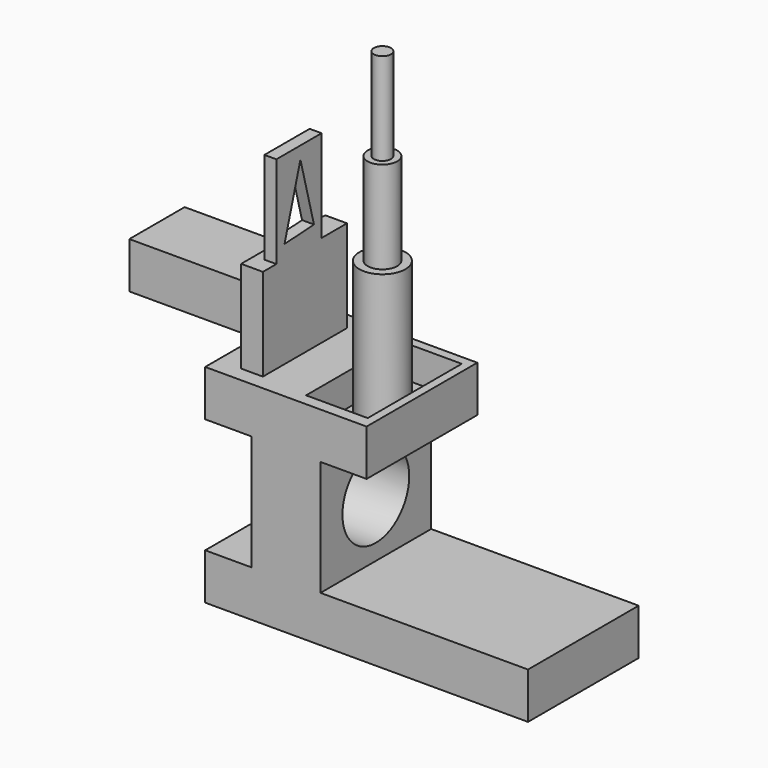
from build123d import *

# Parameters (mm, degrees)
F1_DEPTH  = 76.2
F2_R      = 23.0023216087
F3_DEPTH  = 63.501
F4_W      = 11.9801070541
F4_H      = 57.9038551077
F5_DEPTH  = 50.8
F6_W      = 33.9436382055
F6_H      = 64.7496273741
F7_DEPTH  = 17.78
F8_R      = 12.7
F9_DEPTH  = 76.2
F10_W     = 38.1
F10_H     = 25.4
F11_DEPTH = 63.5
F12_R     = 8.1391487304
F13_DEPTH = 50.8
F14_R     = 4.7187063419
F15_DEPTH = 50.8
F16_W     = 6.577372551
F16_H     = 31.1278868467
F17_DEPTH = 50.8
F19_DEPTH = 30.48
F20_W     = 76.2
F20_H     = 25.4
F21_DEPTH = 88.9


with BuildPart() as f1:
    # F0 (on Front) → F1 (new body)
    with BuildSketch(Plane.XZ):
        Polygon((-45.5546230793, -12.3941076807), (-45.5546230793, -37.7941076807), (43.3453769207, -37.7941076807), (43.3453769207, -12.3941076807), (17.9453769207, -12.3941076807), (17.9453769207, 51.1058923193), (43.3453769207, 51.1058923193), (43.3453769207, 76.5058923193), (-45.5546230793, 76.5058923193), (-45.5546230793, 51.1058923193), (-20.1546230793, 51.1058923193), (-20.1546230793, -12.3941076807), align=None)
    extrude(amount=F1_DEPTH)

    # F2 (on face) → F3 (cut, through all)
    with BuildSketch(Plane.YZ.offset(17.9453769207)):
        with Locations((-38.1, 19.3558923193)):
            Circle(F2_R)
    extrude(amount=-F3_DEPTH, mode=Mode.SUBTRACT)

    # F4 (on face) → F5 (join)
    with BuildSketch(Plane.XY.offset(76.5058923193)):
        with Locations((-26.5273796394, -38.7927298434)):
            Rectangle(F4_W, F4_H)
    extrude(amount=F5_DEPTH)

    # F6 (on face) → F7 (cut)
    with BuildSketch(Plane.XY.offset(76.5058923193)):
        with Locations((21.820910275, -37.3665248044)):
            Rectangle(F6_W, F6_H)
    extrude(amount=-F7_DEPTH, mode=Mode.SUBTRACT)

    # F8 (on face) → F9 (join)
    with BuildSketch(Plane.XY.offset(58.7258923193)):
        with Locations((22.248769179, -38.9353483915)):
            Circle(F8_R)
    extrude(amount=F9_DEPTH)

    # F10 (on face) → F11 (join)
    with BuildSketch(Plane(origin=(-32.5174331665, 0, 0), x_dir=(0, -1, 0), z_dir=(-1, 0, 0))):
        with Locations((46.303805925, 104.9945801497)):
            Rectangle(F10_W, F10_H)
    extrude(amount=F11_DEPTH)

    # F12 (on face) → F13 (join)
    with BuildSketch(Plane.XY.offset(134.9258923193)):
        with Locations((22.248769179, -38.9353483915)):
            Circle(F12_R)
    extrude(amount=F13_DEPTH)

    # F14 (on face) → F15 (join)
    with BuildSketch(Plane.XY.offset(185.7258923193)):
        with Locations((22.248769179, -38.9353483915)):
            Circle(F14_R)
    extrude(amount=F15_DEPTH)

    # F16 (on face) → F17 (join)
    with BuildSketch(Plane.XY.offset(127.3058923193)):
        with Locations((-23.8260123879, -42.9039588198)):
            Rectangle(F16_W, F16_H)
    extrude(amount=F17_DEPTH)

    # F18 (on face) → F19 (cut)
    with BuildSketch(Plane(origin=(-27.1146986634, 0, 0), x_dir=(0, -1, 0), z_dir=(-1, 0, 0))):
        Polygon((41.9095075075, 171.2333210797), (32.5746728326, 135.9694041327), (52.8574562847, 134.7401379139), align=None)
    extrude(amount=-F19_DEPTH, mode=Mode.SUBTRACT)

    # F20 (on face) → F21 (join)
    with BuildSketch(Plane.YZ.offset(43.3453769207)):
        with Locations((-38.1, -25.0941076807)):
            Rectangle(F20_W, F20_H)
    extrude(amount=F21_DEPTH)


solid = f1.part
